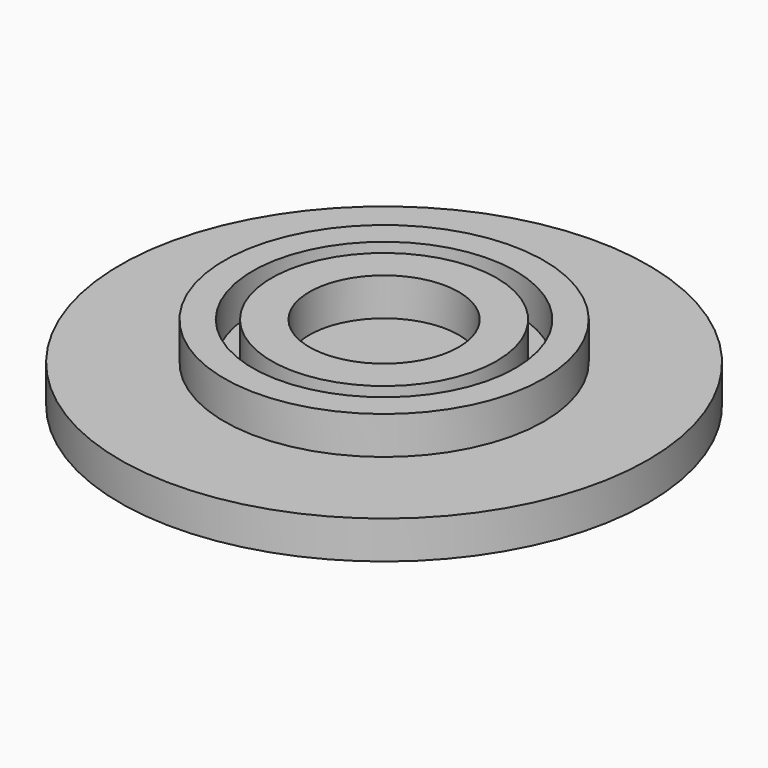
from build123d import *

# Parameters (mm, degrees)
F0_R     = 13.954927
F1_DEPTH = 2
F2_R     = 5.95
F2_R_2   = 3.95
F3_DEPTH = 2
F2_R_3   = 8.45
F2_R_4   = 6.95
F4_DEPTH = 2


with BuildPart() as f1:
    # F0 (on Top) → F1 (new body)
    with BuildSketch(Plane.XY):
        Circle(F0_R)
    extrude(amount=F1_DEPTH)

    # F2 (on face) → F3 (join)
    with BuildSketch(Plane.XY.offset(2)):
        Circle(F2_R)
        Circle(F2_R_2, mode=Mode.SUBTRACT)
    extrude(amount=F3_DEPTH)

    # F2 (on face) → F4 (join)
    with BuildSketch(Plane.XY.offset(2)):
        Circle(F2_R_3)
        Circle(F2_R_4, mode=Mode.SUBTRACT)
    extrude(amount=F4_DEPTH)


solid = f1.part
